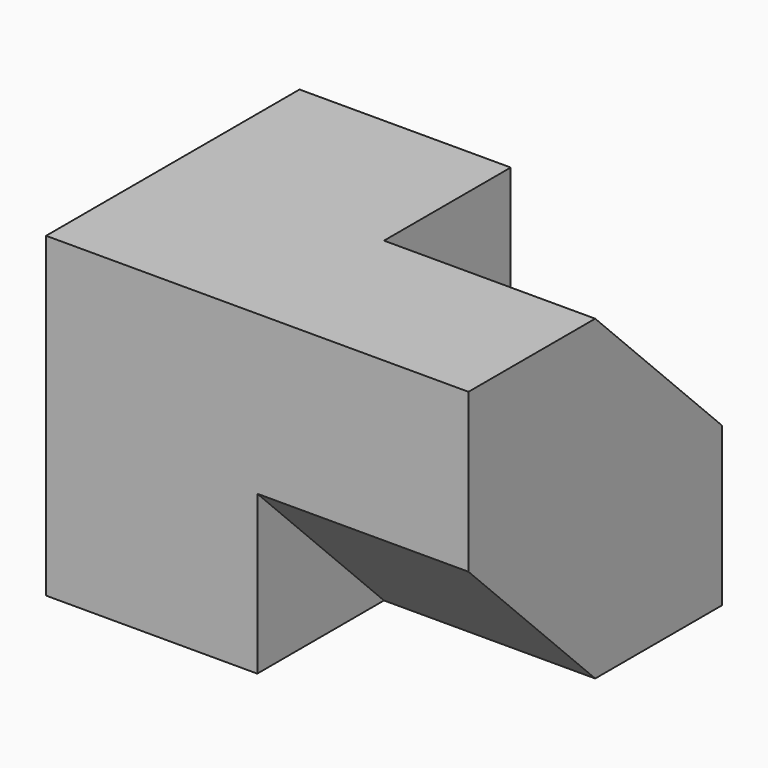
from build123d import *

# Parameters (mm, degrees)
F0_W     = 15
F0_H     = 15
F1_DEPTH = 20
F2_DEPTH = 40
F4_DEPTH = 20
F6_DEPTH = 20


with BuildPart() as f1:
    # F0 (on Right) → F1 (new body)
    with BuildSketch(Plane.YZ):
        with Locations((7.5, 7.5)):
            Rectangle(F0_W, F0_H)
        with Locations((22.5, 7.5)):
            Rectangle(F0_W, F0_H)
        with Locations((7.5, 22.5)):
            Rectangle(F0_W, F0_H)
        with Locations((22.5, 22.5)):
            Rectangle(F0_W, F0_H)
    extrude(amount=F1_DEPTH)

    # F0 (on Right) → F2 (join)
    with BuildSketch(Plane.YZ):
        with Locations((22.5, 7.5)):
            Rectangle(F0_W, F0_H)
        with Locations((22.5, 22.5)):
            Rectangle(F0_W, F0_H)
        with Locations((7.5, 22.5)):
            Rectangle(F0_W, F0_H)
    extrude(amount=F2_DEPTH)

    # F3 (on face) → F4 (cut)
    with BuildSketch(Plane.YZ.offset(40)):
        Polygon((30, 30), (15, 30), (30, 15), align=None)
    extrude(amount=-F4_DEPTH, mode=Mode.SUBTRACT)

    # F5 (on face) → F6 (join)
    with BuildSketch(Plane.YZ.offset(20)):
        Polygon((15, 15), (0, 15), (15, 0), align=None)
    extrude(amount=F6_DEPTH)


solid = f1.part
